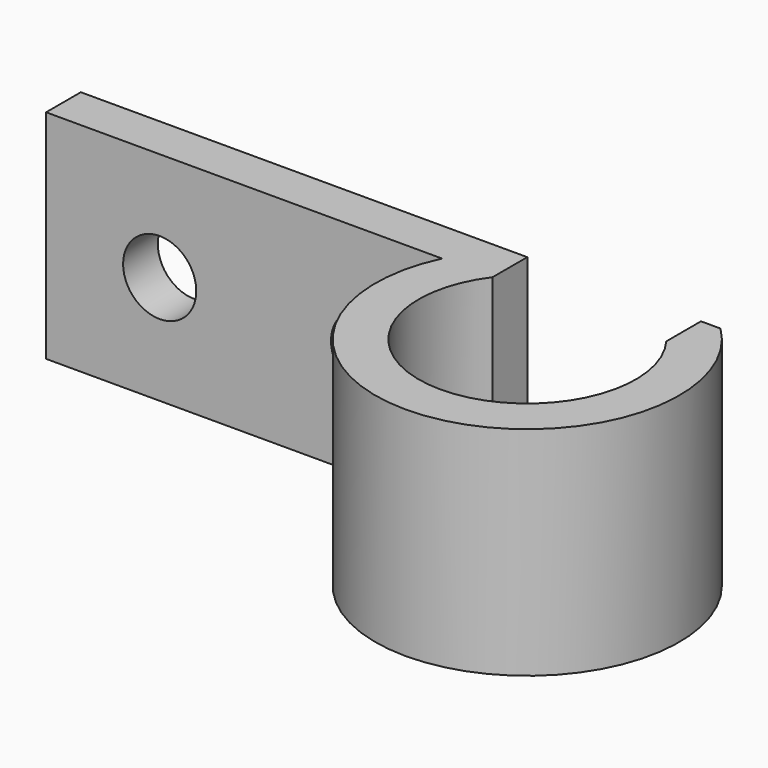
from build123d import *

# Parameters (mm, degrees)
F1_DEPTH = 5
F2_R     = 1.6851
F3_DEPTH = 12.001


with BuildPart() as f1:
    # F0 (on Top) → F1 (new body, symmetric)
    with BuildSketch(Plane.XY):
        with BuildLine():
            ThreePointArc((4, 3), (0, -5), (-4, 3))
            Line((-4, 3), (-4, 5))
            Line((-4, 5), (-24.5641, 5))
            Line((-24.5641, 5), (-24.5641, 3))
            Line((-24.5641, 3), (-6.324555, 3))
            ThreePointArc((-6.324555, 3), (1.228034, -6.891439), (4.898979, 5))
            Line((4.898979, 5), (4, 5))
            Line((4, 5), (4, 3))
        make_face()
    extrude(amount=F1_DEPTH, both=True)

    # F2 (on face) → F3 (cut, through all)
    with BuildSketch(Plane(origin=(0, 5, 0), x_dir=(-1, 0, 0), z_dir=(0, 1, 0))):
        with Locations((19.3317, 0)):
            Circle(F2_R)
        with Locations((9.7559, 0)):
            Circle(F2_R)
    extrude(amount=-F3_DEPTH, mode=Mode.SUBTRACT)


solid = f1.part
